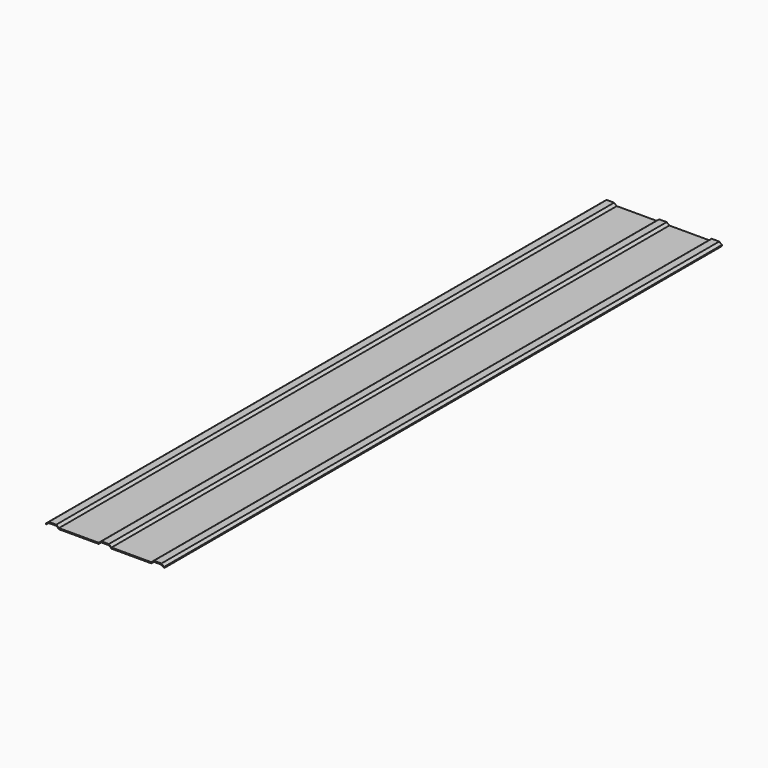
from build123d import *

# Parameters (mm, degrees)
F1_DEPTH = 3250


with BuildPart() as f1:
    # F0 (on Front) → F1 (new body, symmetric)
    with BuildSketch(Plane.XZ):
        Polygon((-455, 20), (-430, 0), (-60, 0), (-35, 20), (35, 20), (60, 0), (430, 0), (455, 20), (525, 20), (550, 0), (550, 10), (525, 30), (455, 30), (430, 10), (60, 10), (35, 30), (-35, 30), (-60, 10), (-430, 10), (-455, 30), (-525, 30), (-550, 10), (-550, 0), (-525, 20), align=None)
    extrude(amount=F1_DEPTH, both=True)


solid = f1.part
